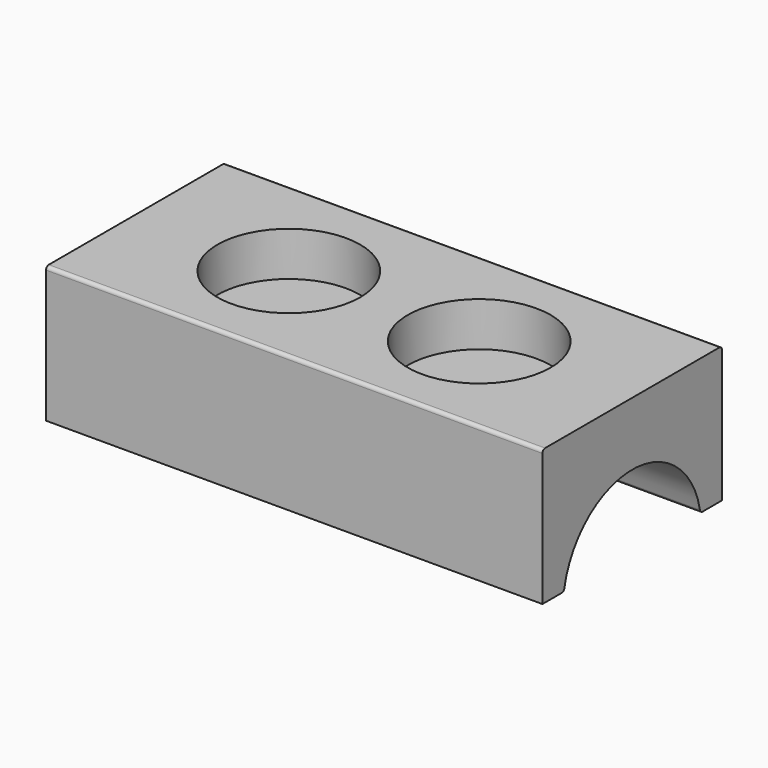
from build123d import *

# Parameters (mm, degrees)
F0_W     = 73
F0_H     = 33
F1_DEPTH = 20
F2_R     = 10.5
F3_DEPTH = 6.5
F5_DEPTH = 73.001
F6_R     = 0.5


with BuildPart() as f1:
    # F0 (on Top) → F1 (new body)
    with BuildSketch(Plane.XY):
        Rectangle(F0_W, F0_H)
    extrude(amount=F1_DEPTH)

    # F2 (on face) → F3 (cut)
    with BuildSketch(Plane.XY.offset(20)):
        with Locations((-14, 0)):
            Circle(F2_R)
        with Locations((14, 0)):
            Circle(F2_R)
    extrude(amount=-F3_DEPTH, mode=Mode.SUBTRACT)

    # F4 (on face) → F5 (cut, through all)
    with BuildSketch(Plane.YZ.offset(36.5)):
        with BuildLine():
            Line((-12.541531007, 0), (12.541531007, 0))
            ThreePointArc((12.541531007, 0), (0, 10.7), (-12.541531007, 0))
        make_face()
        with BuildLine():
            ThreePointArc((-12.541531007, 0), (-1.0031341413, -14.6603207659), (12.7, -2))
            ThreePointArc((12.7, -2), (12.6603207659, -0.9968658587), (12.541531007, 0))
            Line((12.541531007, 0), (-12.541531007, 0))
        make_face()
    extrude(amount=-F5_DEPTH, mode=Mode.SUBTRACT)

    # F6
    f6_edges = [f1.edges().sort_by_distance(p)[0] for p in [
        (0, 16.5, 20),
        (0, -16.5, 20),
        (0, -12.541531, 0),
        (0, 12.541531, 0),
    ]]
    fillet(f6_edges, radius=F6_R)


solid = f1.part
